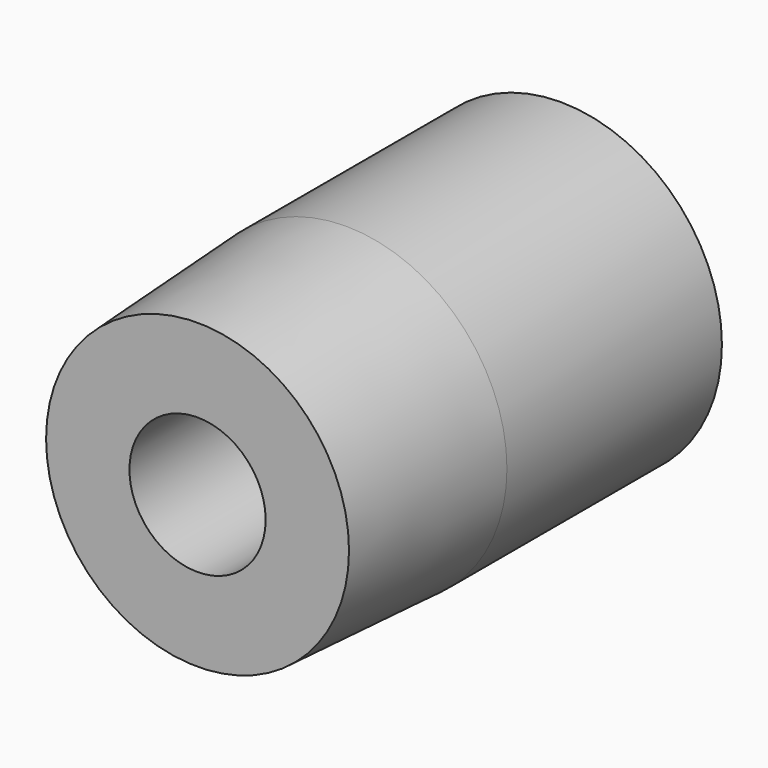
from build123d import *

# Parameters (mm, degrees)
F0_R     = 3.55
F1_DEPTH = 25
F2_SIZE2 = 19.0811366877
F2_SIZE  = 1
F3_R     = 4.5061105162
F4_DEPTH = 15
F5_R     = 1.5
F6_DEPTH = 25


with BuildPart() as f1:
    # F0 (on Front) → F1 (new body)
    with BuildSketch(Plane.XZ):
        with Locations((-36.0824763775, 37.0747447014)):
            Circle(F0_R)
    extrude(amount=F1_DEPTH)

    # F2
    f2_edges = [f1.edges().sort_by_distance(p)[0] for p in [
        (-39.632476, -25, 37.074745),
    ]]
    f2_side = f1.faces().sort_by_distance((-36.082476, -25, 37.074745))[0]
    chamfer(f2_edges, length=F2_SIZE, length2=F2_SIZE2, reference=f2_side)

    # F3 (on face) → F4 (cut)
    with BuildSketch(Plane.XZ.offset(25)):
        with Locations((-36.0824763775, 37.0747447014)):
            Circle(F3_R)
    extrude(amount=-F4_DEPTH, mode=Mode.SUBTRACT)

    # F5 (on face) → F6 (cut)
    with BuildSketch(Plane.XZ.offset(10)):
        with Locations((-36.0824763775, 37.0747447014)):
            Circle(F5_R)
    extrude(amount=-F6_DEPTH, mode=Mode.SUBTRACT)


solid = f1.part
